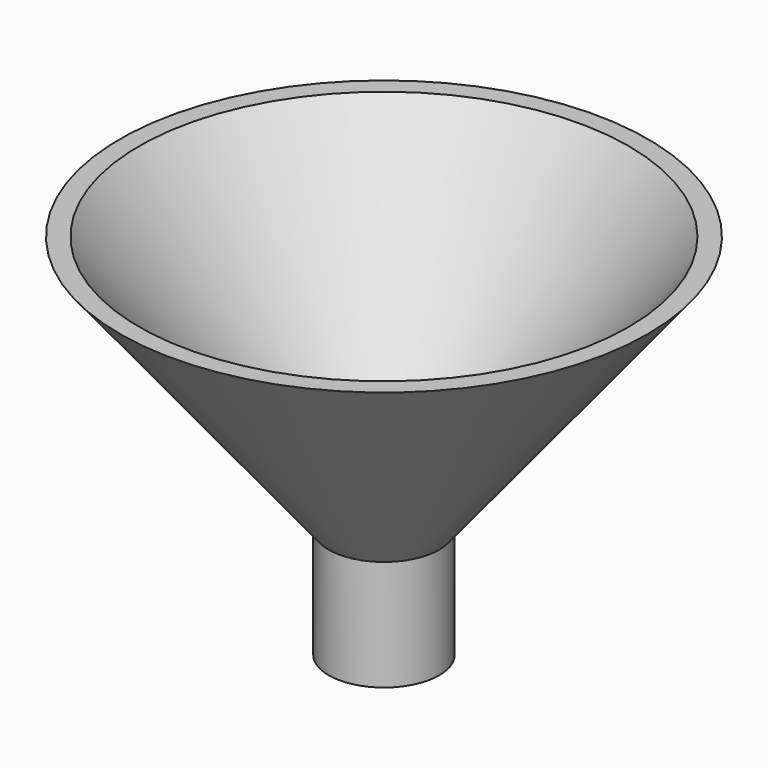
from build123d import *

# Parameters (mm, degrees)
F1_FACE_R = 8.307964
F2_DEPTH  = 50.8


with BuildPart() as f1:
    # F0 (on Front) → F1 (revolve)
    with BuildSketch(Plane.XZ):
        Polygon((8.307964, 0), (0, 0), (0, -25.4), (12.7, -25.4), (12.7, 0), (60.64272, 59.227828), (56.250684, 59.227828), align=None)
    revolve(axis=Axis((0, 0, -12.7), (0, 0, -1)))

    # F1_face (on face) → F2 (cut)
    with BuildSketch(Plane.XY):
        Circle(F1_FACE_R)
    extrude(amount=-F2_DEPTH, mode=Mode.SUBTRACT)


solid = f1.part
